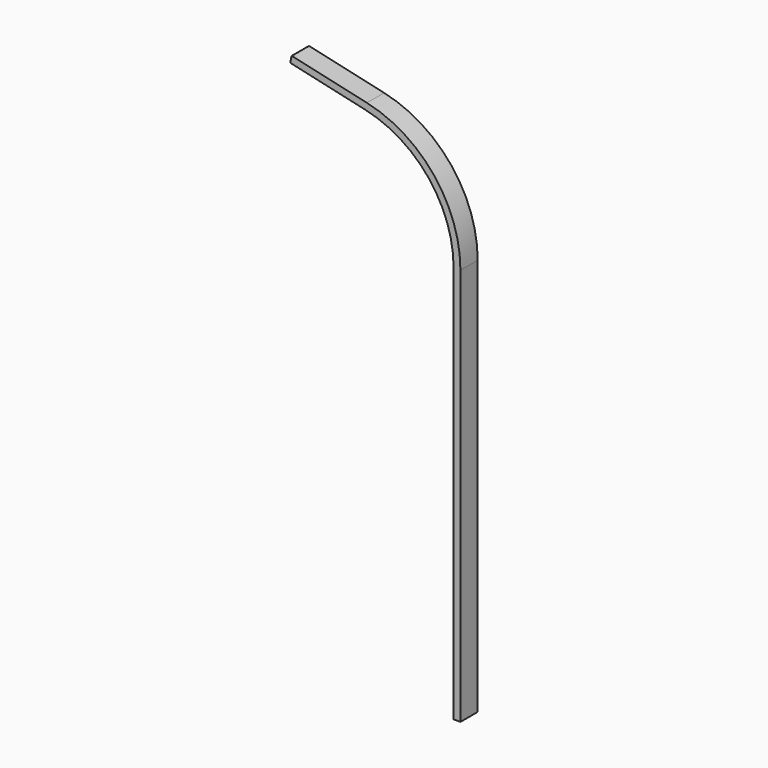
from build123d import *

# Parameters (mm, degrees)
F1_W = 0.6
F1_H = 1.9
F3_R = 0.1


with BuildPart() as f2:
    # F2: sweep along a path in F0
    with BuildLine(Plane.XZ) as f2_path:
        Line((0, 0), (0, 35))
        ThreePointArc((0, 35), (-2.2460947032, 41.4031242374), (-8, 45))
        Line((-8, 45), (-14.6666666667, 46.5))
    # F1 (on Top) → F2 (sweep)
    with BuildSketch(Plane.XY):
        Rectangle(F1_W, F1_H)
    sweep(path=f2_path.line)

    # F3
    f3_edges = [f2.edges().sort_by_distance(p)[0] for p in [
        (-14.600813, 0, 46.792683),
        (-14.73252, 0, 46.207317),
        (-14.666667, -0.95, 46.5),
        (-14.666667, 0.95, 46.5),
    ]]
    fillet(f3_edges, radius=F3_R)


solid = f2.part
